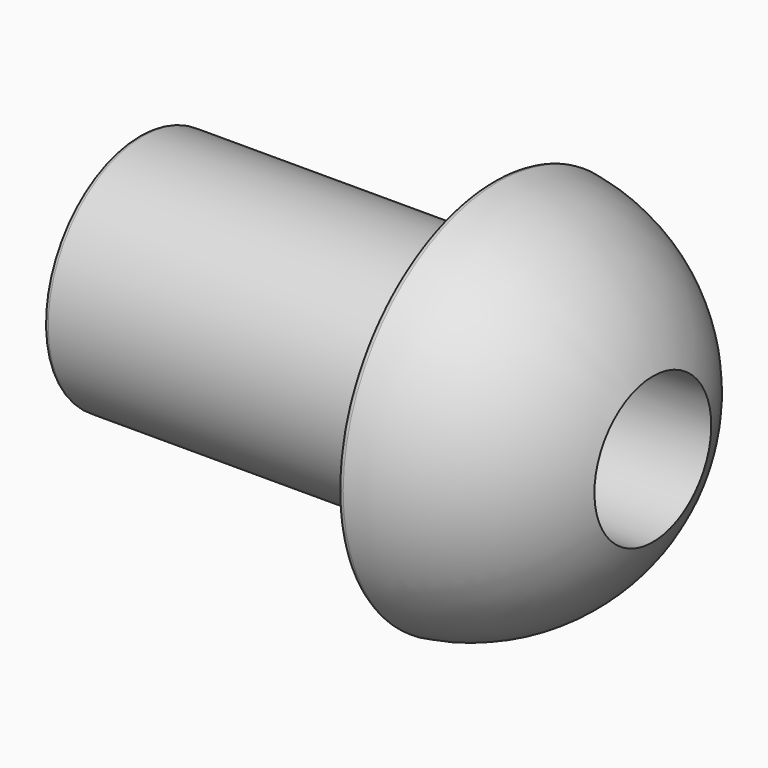
from build123d import *

# Parameters (mm, degrees)
F2_R     = 1.714819
F2_R_2   = 1.7145
F3_DEPTH = 9.525
F4_R     = 0.3048


with BuildPart() as f1:
    # F0 (on Front) → F1 (revolve)
    with BuildSketch(Plane.XZ):
        with BuildLine():
            Line((0, 7.747), (0, 0))
            Line((0, 0), (13.843, 0))
            Line((13.843, 0), (13.843, 3.175))
            Line((13.843, 3.175), (24.003, 3.175))
            Line((24.003, 3.175), (24.003, 4.7625))
            Line((24.003, 4.7625), (33.528, 4.7625))
            ThreePointArc((33.528, 4.7625), (29.41456, 10.166001), (23.114, 12.7))
            Line((23.114, 12.7), (23.114, 7.747))
            Line((23.114, 7.747), (0, 7.747))
        make_face()
    revolve(axis=Axis((6.9215, 0, 0), (1, 0, 0)))

    # F2 (on face) → F3 (cut)
    with BuildSketch(Plane(origin=(0, 0, 0), x_dir=(0, -1, 0), z_dir=(-1, 0, 0))):
        with Locations((0, 4.7625)):
            Circle(F2_R)
        with Locations((4.7625, 0)):
            Circle(F2_R_2)
        with Locations((0, -4.7625)):
            Circle(F2_R_2)
        with Locations((-4.7625, 0)):
            Circle(F2_R_2)
    extrude(amount=-F3_DEPTH, mode=Mode.SUBTRACT)

    # F4
    f4_edges = [f1.edges().sort_by_distance(p)[0] for p in [
        (0, 0, -7.747),
        (23.114, 0, -12.7),
    ]]
    fillet(f4_edges, radius=F4_R)


solid = f1.part
